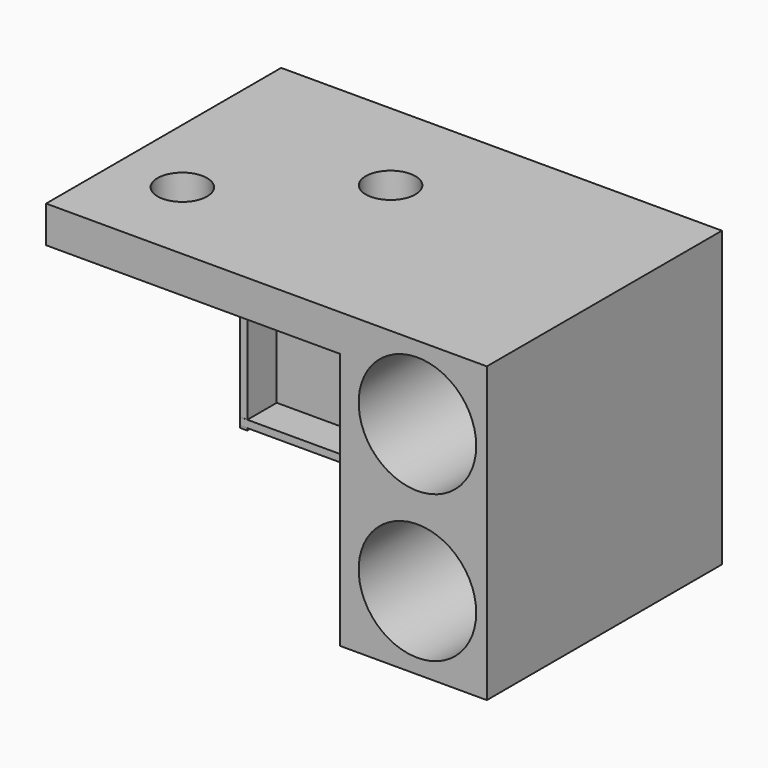
from build123d import *

# Parameters (mm, degrees)
F0_R     = 10.16
F1_DEPTH = 50.8
F0_W     = 50.8
F0_H     = 44.45
F2_DEPTH = 2.54
F5_DEPTH = 1.27
F3_W     = 50.8
F3_H     = 6.35
F6_DEPTH = 1.27
F7_R     = 4.2926
F8_DEPTH = 6.351


with BuildPart() as f1:
    # F0 (on Front) → F1 (new body)
    with BuildSketch(Plane.XZ):
        Polygon((19.978336, 18.750969), (-56.221664, 18.750969), (-56.221664, 12.400969), (-5.421664, 12.400969), (-5.421664, -32.049031), (19.978336, -32.049031), align=None)
        with Locations((7.978835, -19.349031)):
            Circle(F0_R, mode=Mode.SUBTRACT)
        with Locations((7.978835, 6.050969)):
            Circle(F0_R, mode=Mode.SUBTRACT)
    extrude(amount=F1_DEPTH)

    # F0 (on Front) → F2 (join)
    with BuildSketch(Plane.XZ):
        with Locations((-30.821664, -9.824031)):
            Rectangle(F0_W, F0_H)
        with Locations((7.978835, -19.349031)):
            Circle(F0_R)
        with Locations((7.978835, 6.050969)):
            Circle(F0_R)
    extrude(amount=F2_DEPTH)

    # F4 (on face) → F5 (join)
    with BuildSketch(Plane(origin=(-56.221664, 0, 0), x_dir=(0, -1, 0), z_dir=(-1, 0, 0))):
        Polygon((8.878232, 12.400969), (2.54, 12.400969), (2.54, -32.049031), (8.878232, -32.435447), align=None)
    extrude(amount=-F5_DEPTH)

    # F3 (on face) → F6 (join)
    with BuildSketch(Plane(origin=(0, 0, -32.049031), x_dir=(1, 0, 0), z_dir=(0, 0, -1))):
        with Locations((-30.821664, 5.715)):
            Rectangle(F3_W, F3_H)
    extrude(amount=-F6_DEPTH)

    # F7 (on face) → F8 (cut, through all)
    with BuildSketch(Plane(origin=(0, 0, 12.400969), x_dir=(1, 0, 0), z_dir=(0, 0, -1))):
        with Locations((-44.832879, 35.587724)):
            Circle(F7_R)
        with Locations((-23.242238, 17.584552)):
            Circle(F7_R)
    extrude(amount=-F8_DEPTH, mode=Mode.SUBTRACT)


solid = f1.part
